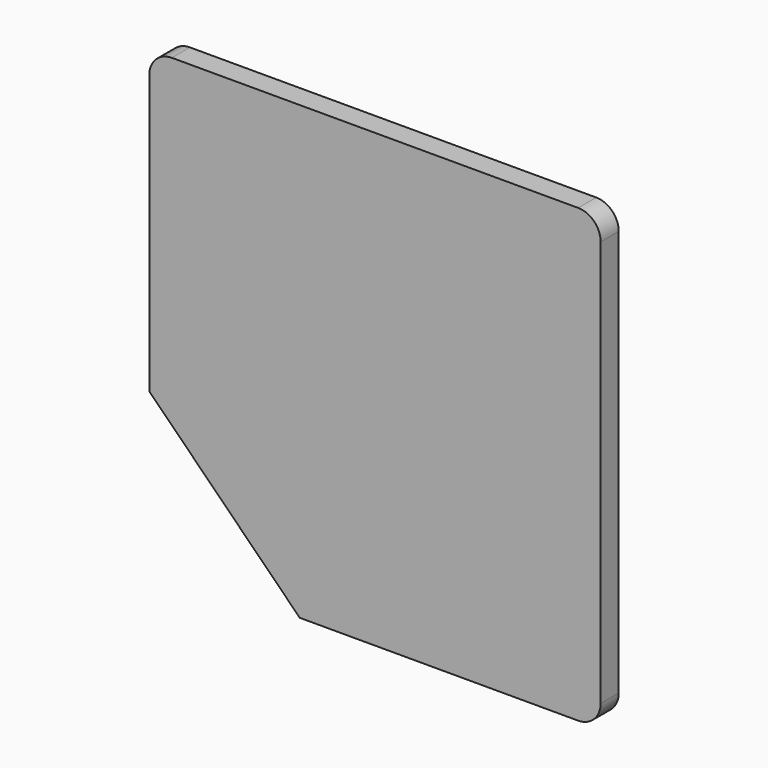
from build123d import *

# Parameters (mm, degrees)
F1_DEPTH = 6
F2_R     = 6
F3_R     = 6


with BuildPart() as f1:
    # F0 (on Front) → F1 (new body)
    with BuildSketch(Plane.XZ):
        Polygon((0, -120), (0, 0), (-120, 0), (-120, -80), (-80, -120), align=None)
    extrude(amount=F1_DEPTH)

    # F2
    f2_edges = [f1.edges().sort_by_distance(p)[0] for p in [
        (0, -3, 0),
    ]]
    fillet(f2_edges, radius=F2_R)

    # F3
    f3_edges = [f1.edges().sort_by_distance(p)[0] for p in [
        (-120, -3, 0),
        (0, -3, -120),
    ]]
    fillet(f3_edges, radius=F3_R)


solid = f1.part
